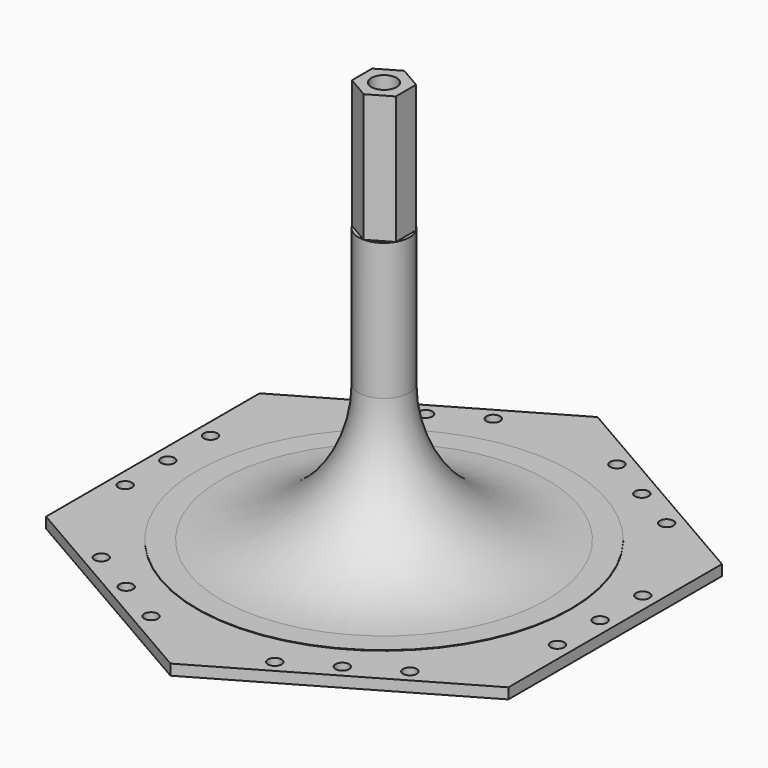
from build123d import *

# Parameters (mm, degrees)
SKETCH001_R        = 4.7
PAD_DEPTH          = 4
SKETCH003_R        = 2.55
POCKET_DEPTH       = 5
POLARPATTERN_COUNT = 6
SKETCH002_R        = 4.7
PAD001_DEPTH       = 48


with BuildPart() as part:
    # Sketch → Revolution (revolve)
    with BuildSketch(Plane.XZ):
        with BuildLine():
            Line((9.49, 51.71), (9.49, 103))
            Line((9.49, 103), (4.7, 103))
            Line((4.7, 103), (4.7, 0))
            Line((4.7, 0), (70, 0))
            Line((70, 0), (70, 0.2))
            Line((70, 0.2), (61, 0.2))
            ThreePointArc((9.49, 51.71), (24.57693, 15.28693), (61, 0.2))
        make_face()
    revolve(axis=Axis((0, 0, 0), (0, 0, 1)))

    # Sketch001 (on Face4 of Revolution) → Pad (new body)
    with BuildSketch(Plane(origin=(0, 0, 0), x_dir=(1, 0, 0), z_dir=(0, 0, -1))):
        Polygon((0, 100), (-86.60254, 50), (-86.60254, -50), (0, -100), (86.60254, -50), (86.60254, 50), align=None)
        Circle(SKETCH001_R, mode=Mode.SUBTRACT)
    extrude(amount=PAD_DEPTH)

    # Sketch003 → Pocket (cut)
    with BuildSketch(Plane(origin=(0, 0, -4), x_dir=(1, 0, 0), z_dir=(0, 0, -1))):
        with Locations((-57.807196, 60.125)):
            Circle(SKETCH003_R)
        with Locations((-40.486688, 70.125)):
            Circle(SKETCH003_R)
        with Locations((-23.16618, 80.125)):
            Circle(SKETCH003_R)
    pocket = extrude(amount=-POCKET_DEPTH, mode=Mode.SUBTRACT)

    # PolarPattern: Pocket ×6 about axis
    polarpattern_axis = Axis((0, 0, -4), (0, 0, -1))
    for i in range(1, POLARPATTERN_COUNT):
        add(pocket.rotate(polarpattern_axis, i * 360 / POLARPATTERN_COUNT), mode=Mode.SUBTRACT)

    # Sketch002 (on Face3 of Pad) → Pad001 (join)
    with BuildSketch(Plane(origin=(0, 0, 103), x_dir=(-1, 0, 0), z_dir=(0, 0, 1))):
        Polygon((0, 9.49), (-8.218581, 4.745), (-8.218581, -4.745), (0, -9.49), (8.218581, -4.745), (8.218581, 4.745), align=None)
        Circle(SKETCH002_R, mode=Mode.SUBTRACT)
    extrude(amount=PAD001_DEPTH)


solid = part.part
